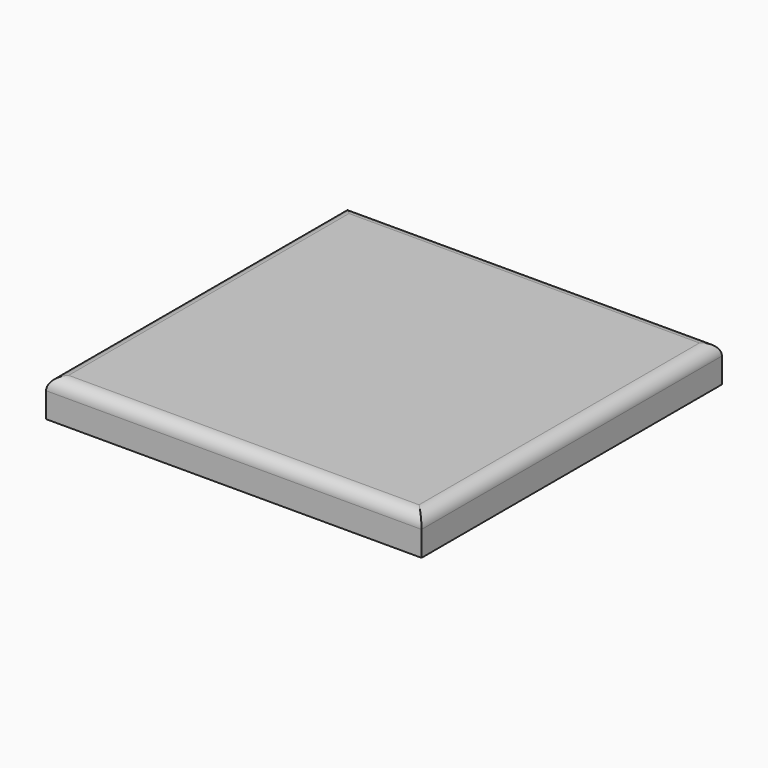
from build123d import *

# Parameters (mm, degrees)
SKETCH_W  = 30
SKETCH_H  = 30
PAD_DEPTH = 3
FILLET_R  = 1


with BuildPart() as part:
    # Sketch → Pad (new body)
    with BuildSketch(Plane.XY):
        Rectangle(SKETCH_W, SKETCH_H)
    extrude(amount=PAD_DEPTH)

    # Fillet
    fillet_edges = [part.edges().sort_by_distance(p)[0] for p in [
        (15, 0, 3),
        (0, -15, 3),
        (-15, 0, 3),
        (0, 15, 3),
    ]]
    fillet(fillet_edges, radius=FILLET_R)


solid = part.part
